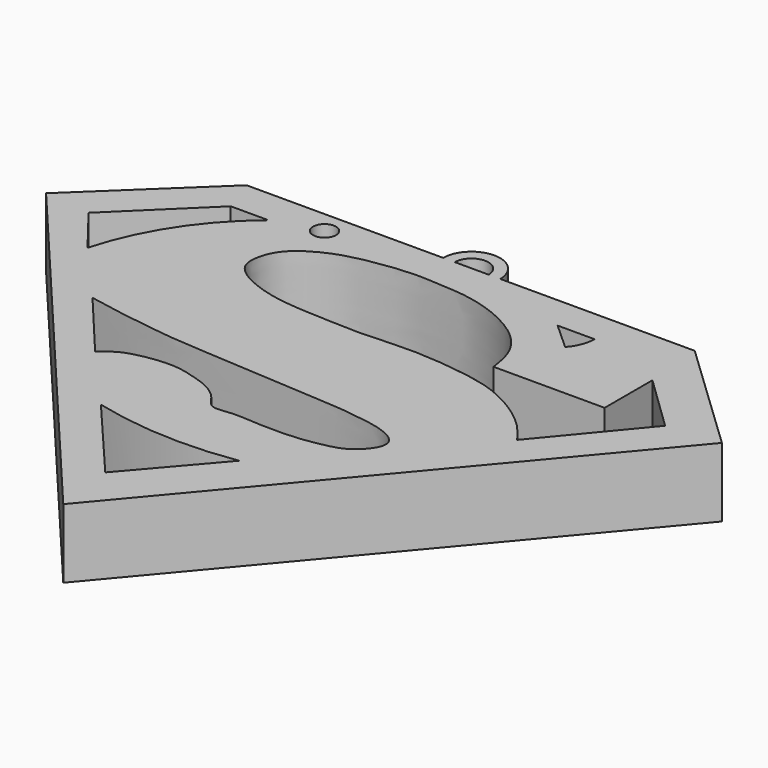
from build123d import *

# Parameters (mm, degrees)
F1_DEPTH = 10
F2_R     = 4.1291172472
F2_R_2   = 2.4536472003
F3_DEPTH = 10
F4_R     = 1.6620527227
F5_DEPTH = 10


with BuildPart() as f1:
    # F0 (on Top) → F1 (new body)
    with BuildSketch(Plane.XY):
        Polygon((48.6871339381, 24.0267701447), (32.2320349514, 39.6856553853), (-32.526742667, 39.6856553853), (-48.9818416536, 24.0267701447), (0, -34.0968854725), align=None)
        with BuildLine():
            Line((-1.1419440852, -25.0803939998), (-11.873068288, -12.4555416405))
            ThreePointArc((-11.873068288, -12.4555416405), (-1.5449667897, -13.9798475555), (8.879031986, -13.4024061263))
            Line((8.879031986, -13.4024061263), (-1.1419440852, -25.0803939998))
        make_face(mode=Mode.SUBTRACT)
        with BuildLine():
            Line((-20.4806253314, -2.7432614006), (-28.9257541299, 7.3439762928))
            add(Edge.make_bspline(
                [(-28.9257541299, 7.3439762928), (-27.7041557533, 7.1042516196), (-25.1343417086, 6.5999550817), (-20.5071721755, 5.9186828612), (-15.2941459695, 5.2027810961), (-9.6967303355, 4.912056573), (-5.0065526043, 4.6277734968), (-0.0258348095, 4.2978486992), (5.1043461483, 3.9475572244), (9.0171892798, 3.78550029), (12.7687184921, 3.3374030894), (15.8589246558, 2.8271719807), (18.354253956, 1.846017111), (19.3456576886, 0.6543818951), (19.3343744233, -0.6639424899), (18.3203235578, -2.2288312883), (16.6207460101, -3.7015245055), (14.3263622499, -4.4031891089), (10.9927891698, -4.9676859057), (8.0209735922, -5.133913569), (4.1714143655, -5.0413954433), (1.0080516098, -4.7142444082), (-2.0628040973, -5.4417284499), (-3.2020564374, -2.9509618201), (-5.6502647675, -1.2927149709), (-8.0959932843, -0.5875744815), (-10.5743010217, 0.1454018515), (-13.6740035748, 0.0866319645), (-16.4345411652, -0.4367687795), (-18.5324211083, -1.1113439505), (-19.8146148511, -2.1853762919), (-20.4806253314, -2.7432614006)],
                knots=[0, 0, 0, 0, 0.0380762841, 0.080099132, 0.1251342494, 0.1712257874, 0.2134681593, 0.2570747621, 0.3012784126, 0.3399936328, 0.3776268916, 0.4124933602, 0.4439470678, 0.4669989198, 0.4881011378, 0.5143180706, 0.5432093149, 0.5733261064, 0.6088934877, 0.6429519661, 0.6809417518, 0.7165108938, 0.7483745487, 0.7780914579, 0.8113771663, 0.8424148757, 0.8735568422, 0.9078438929, 0.9405140025, 0.9691011612, 1, 1, 1, 1], degree=3))
        make_face(mode=Mode.SUBTRACT)
        with BuildLine():
            Line((-30.7146701962, 34.5521233976), (-25.2722520381, 34.5521233976))
            ThreePointArc((-25.2722520381, 34.5521233976), (-32.5438240837, 26.4599346385), (-37.0015986264, 16.5358465165))
            Line((-37.0015986264, 16.5358465165), (-42.2563478351, 23.2919491827))
            Line((-42.2563478351, 23.2919491827), (-30.7146701962, 34.5521233976))
        make_face(mode=Mode.SUBTRACT)
        with BuildLine():
            Line((32.9991430044, 22.4474351853), (32.9991430044, 31.0802347958))
            Line((32.9991430044, 31.0802347958), (41.0689339042, 23.2919491827))
            Line((41.0689339042, 23.2919491827), (30.1840994507, 10.1550798863))
            add(Edge.make_bspline(
                [(16.9533975422, 22.4474351853), (16.7763630876, 23.6204972546), (16.4233922904, 25.9593451066), (14.4919082724, 29.0067524158), (11.4904366669, 31.3338997816), (7.5509848624, 33.2071783395), (3.1893253694, 34.2167292744), (0.0358040039, 34.2895670891), (-3.2978287831, 34.6044239604), (-6.8113658449, 34.3891801132), (-11.5691240889, 33.6738660531), (-15.3215294824, 32.5136949841), (-19.1958746976, 30.1421993503), (-20.6153048829, 27.2288525323), (-20.8155992268, 24.3032637665), (-18.6131368315, 22.2111671921), (-14.7115151734, 20.6089967349), (-10.604713445, 19.8609182978), (-5.9503220493, 19.7101519654), (-0.0214302707, 19.3884805067), (4.3629930527, 19.726026752), (8.3651996911, 19.8085427382), (12.7556258455, 19.447607518), (16.9835267692, 18.8503988421), (20.7946936237, 17.8259063338), (25.1154626388, 15.4857554411), (28.3855587226, 12.6477632954), (29.6222967244, 10.9337090901), (30.1840994507, 10.1550798863)],
                knots=[0, 0, 0, 0, 0.0363315316, 0.0724377054, 0.1098728187, 0.1505281026, 0.1913243143, 0.2257292376, 0.260578427, 0.2971712123, 0.339382906, 0.3783565619, 0.4187888916, 0.4531535528, 0.4845428977, 0.5167359254, 0.5564092211, 0.5959018756, 0.6378853615, 0.6851507204, 0.7258566415, 0.7643019496, 0.8049882992, 0.8448797337, 0.8832775553, 0.9261996139, 0.96647531, 1, 1, 1, 1], degree=3))
            Line((16.9533975422, 22.4474351853), (32.9991430044, 22.4474351853))
        make_face(mode=Mode.SUBTRACT)
        with BuildLine():
            Line((20.2376134694, 31.2679037452), (16.2965524942, 34.833624959))
            Line((16.2965524942, 34.833624959), (21.6451361775, 34.833624959))
            ThreePointArc((21.6451361775, 34.833624959), (21.2607610669, 32.9246907296), (20.2376134694, 31.2679037452))
        make_face(mode=Mode.SUBTRACT)
    extrude(amount=F1_DEPTH)

    # F2 (on Top) → F3 (join)
    with BuildSketch(Plane.XY):
        with Locations((0, 39.645884186)):
            Circle(F2_R)
        with Locations((0, 39.645884186)):
            Circle(F2_R_2, mode=Mode.SUBTRACT)
    extrude(amount=F3_DEPTH)

    # F4 (on face) → F5 (cut, through all)
    with BuildSketch(Plane.XY.offset(10)):
        with Locations((-18.6976976693, 36.4709980786)):
            Circle(F4_R)
    extrude(amount=-F5_DEPTH, mode=Mode.SUBTRACT)


solid = f1.part
